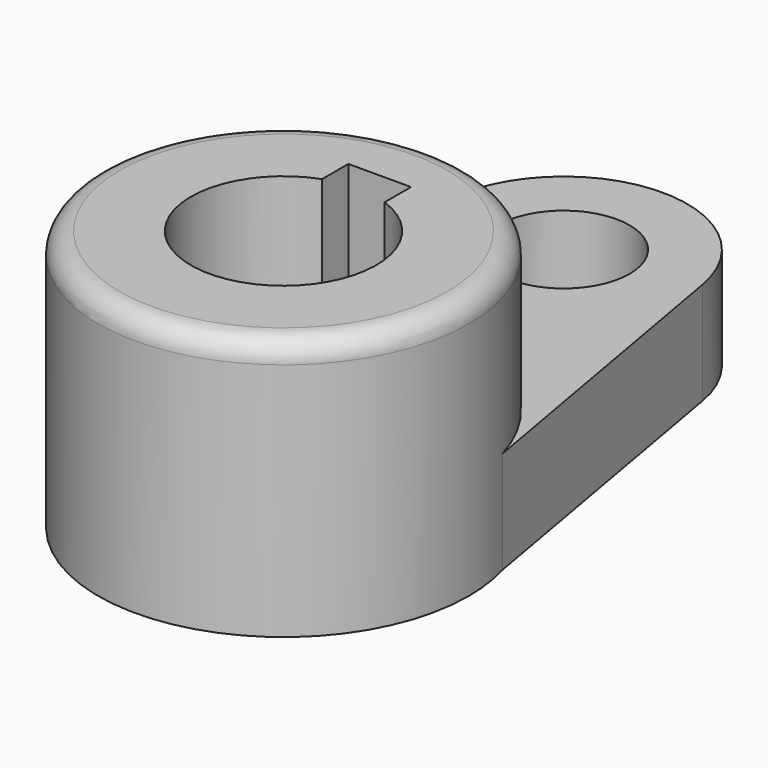
from build123d import *

# Parameters (mm, degrees)
F0_R     = 28.575
F0_R_2   = 14.2875
F1_DEPTH = 40.2336
F2_W     = 9.652
F2_H     = 5.081535
F3_DEPTH = 40.2346
F4_R     = 10.16
F5_DEPTH = 15.7734
F6_R     = 3.302


with BuildPart() as f1:
    # F0 (on Top) → F1 (new body)
    with BuildSketch(Plane.XY):
        Circle(F0_R)
        Circle(F0_R_2, mode=Mode.SUBTRACT)
    extrude(amount=F1_DEPTH)

    # F2 (on face) → F3 (cut, through all)
    with BuildSketch(Plane.XY.offset(40.2336)):
        with Locations((0, 15.988532)):
            Rectangle(F2_W, F2_H)
    extrude(amount=-F3_DEPTH, mode=Mode.SUBTRACT)

    # F4 (on Top) → F5 (join)
    with BuildSketch(Plane.XY):
        with BuildLine():
            ThreePointArc((18.760191, 57.285248), (0, 73.025), (-18.760191, 57.285248))
            Line((-18.760191, 57.285248), (-27.641075, 6.954561))
            ThreePointArc((-27.641075, 6.954561), (0, 28.502543), (27.641075, 6.954561))
            Line((27.641075, 6.954561), (18.760191, 57.285248))
        make_face()
        with Locations((0, 53.975)):
            Circle(F4_R, mode=Mode.SUBTRACT)
    extrude(amount=F5_DEPTH)

    # F6
    f6_edges = [f1.edges().sort_by_distance(p)[0] for p in [
        (-28.575, 0, 40.2336),
    ]]
    fillet(f6_edges, radius=F6_R)


solid = f1.part
